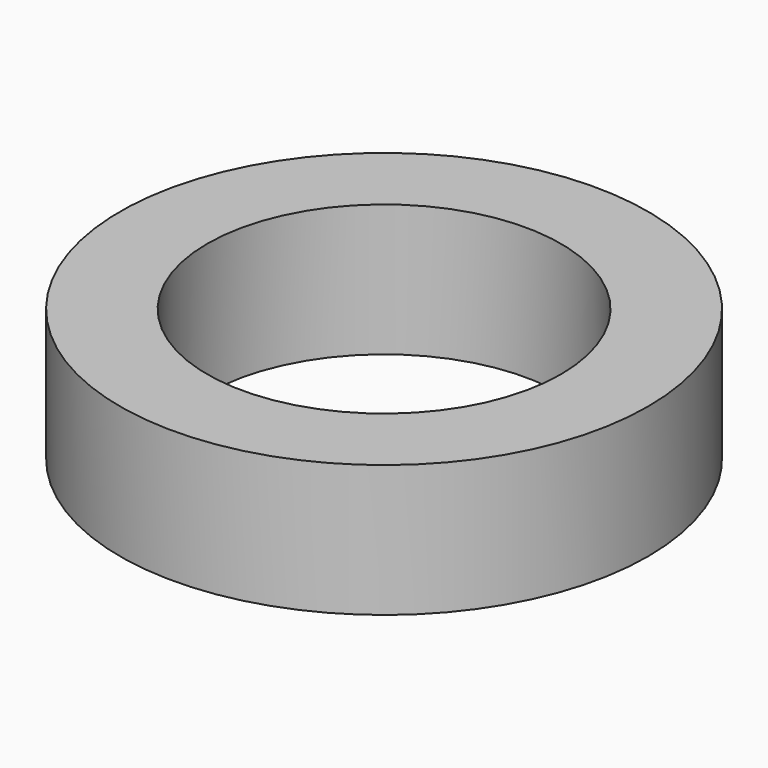
from build123d import *

# Parameters (mm, degrees)
SKETCH_R   = 10
SKETCH_R_2 = 6.7
PAD_DEPTH  = 5


with BuildPart() as part:
    # Sketch → Pad (new body)
    with BuildSketch(Plane.XY):
        Circle(SKETCH_R)
        Circle(SKETCH_R_2, mode=Mode.SUBTRACT)
    extrude(amount=PAD_DEPTH)


solid = part.part
